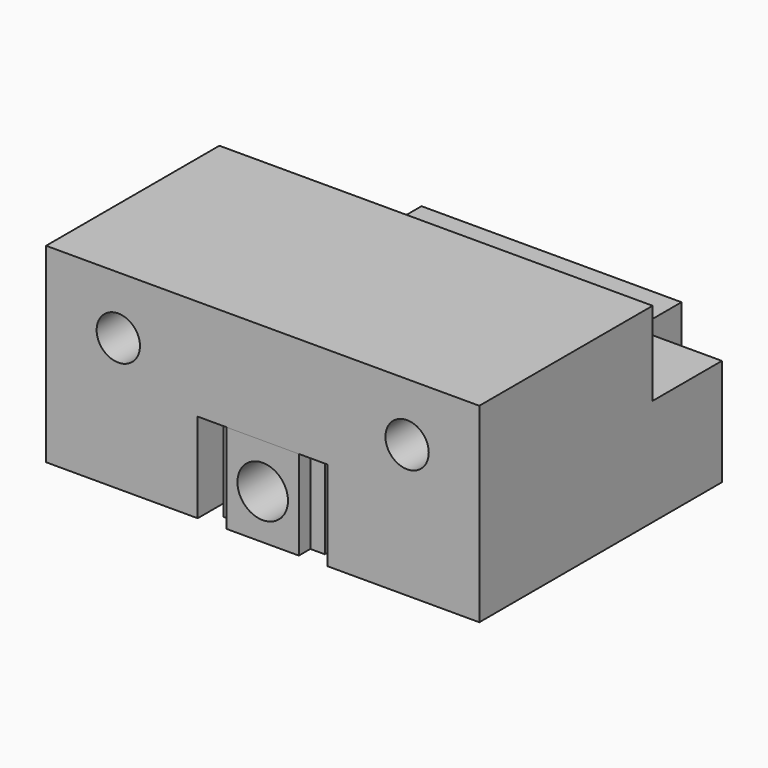
from build123d import *

# Parameters (mm, degrees)
F0_W      = 30
F0_H      = 7
F0_R      = 1.5
F1_DEPTH  = 25
F3_DEPTH  = 6.2
F4_DEPTH  = 6.2
F5_R      = 1.75
F6_DEPTH  = 15
F7_R      = 1.75
F8_DEPTH  = 7
F9_W      = 30
F9_H      = 5.8
F10_DEPTH = 10
F11_W     = 6
F11_H     = 4
F12_DEPTH = 13.201


with BuildPart() as f1:
    # F0 (on Front) → F1 (new body)
    with BuildSketch(Plane.XZ):
        with Locations((0, 0.5)):
            Rectangle(F0_W, F0_H)
        with Locations((-10, 0)):
            Circle(F0_R, mode=Mode.SUBTRACT)
        with Locations((10, 0)):
            Circle(F0_R, mode=Mode.SUBTRACT)
    extrude(amount=F1_DEPTH)

    # F2 (on face) → F4 (join)
    with BuildSketch(Plane(origin=(0, 0, -3), x_dir=(1, 0, 0), z_dir=(0, 0, -1))):
        with BuildLine():
            Line((4.5, 25), (4.5, 2.5))
            ThreePointArc((4.5, 2.5), (5.232233, 0.732233), (7, 0))
            Line((7, 0), (15, 0))
            Line((15, 0), (15, 25))
            Line((15, 25), (4.5, 25))
        make_face()
        with BuildLine():
            Line((-4.5, 25), (-15, 25))
            Line((-15, 25), (-15, 0))
            Line((-15, 0), (-7, 0))
            ThreePointArc((-7, 0), (-5.232233, 0.732233), (-4.5, 2.5))
            Line((-4.5, 2.5), (-4.5, 25))
        make_face()
    extrude(amount=F4_DEPTH)

    # F7 (on face) → F8 (cut)
    with BuildSketch(Plane(origin=(0, 0, -9.2), x_dir=(1, 0, 0), z_dir=(0, 0, -1))):
        with Locations((9, 7)):
            Circle(F7_R)
        with Locations((9, 19)):
            Circle(F7_R)
        with Locations((-9, 7)):
            Circle(F7_R)
        with Locations((-9, 19)):
            Circle(F7_R)
    extrude(amount=-F8_DEPTH, mode=Mode.SUBTRACT)

    # F9 (on face) → F10 (cut)
    with BuildSketch(Plane(origin=(0, 0, 0), x_dir=(-1, 0, 0), z_dir=(0, 1, 0))):
        with Locations((0, 1.1)):
            Rectangle(F9_W, F9_H)
    extrude(amount=-F10_DEPTH, mode=Mode.SUBTRACT)

    # F11 (on face) → F12 (cut, through all)
    with BuildSketch(Plane(origin=(0, 0, -9.2), x_dir=(1, 0, 0), z_dir=(0, 0, -1))):
        with Locations((-12, 2)):
            Rectangle(F11_W, F11_H)
        with Locations((12, 2)):
            Rectangle(F11_W, F11_H)
    extrude(amount=-F12_DEPTH, mode=Mode.SUBTRACT)


with BuildPart() as f3:
    # F2 (on face) → F3 (new body)
    with BuildSketch(Plane(origin=(0, 0, -3), x_dir=(1, 0, 0), z_dir=(0, 0, -1))):
        Polygon((2.5, 25), (-2.5, 25), (-2.5, 24), (-3.5, 24), (-3.5, 23), (-2.5, 23), (-2.5, 22), (-3.5, 22), (-3.5, 21), (-2.5, 21), (-2.5, 20), (-3.5, 20), (-3.5, 19), (-2.5, 19), (-2.5, 18), (-3.5, 18), (-3.5, 17), (-2.5, 17), (-2.5, 16), (-3.5, 16), (-3.5, 15), (-2.5, 15), (-2.5, 14), (-3.5, 14), (-3.5, 13), (-2.5, 13), (-2.5, 12), (-3.5, 12), (-3.5, 11), (-2.5, 11), (-2.5, 10), (-3.5, 10), (-3.5, 9), (-2.5, 9), (2.5, 9), (3.5, 9), (3.5, 10), (2.5, 10), (2.5, 11), (3.5, 11), (3.5, 12), (2.5, 12), (2.5, 13), (3.5, 13), (3.5, 14), (2.5, 14), (2.5, 15), (3.5, 15), (3.5, 16), (2.5, 16), (2.5, 17), (3.5, 17), (3.5, 18), (2.5, 18), (2.5, 19), (3.5, 19), (3.5, 20), (2.5, 20), (2.5, 21), (3.5, 21), (3.5, 22), (2.5, 22), (2.5, 23), (3.5, 23), (3.5, 24), (2.5, 24), align=None)
    extrude(amount=F3_DEPTH)

    # F5 (on face) → F6 (cut)
    with BuildSketch(Plane.XZ.offset(25)):
        with Locations((0, -6.1)):
            Circle(F5_R)
    extrude(amount=-F6_DEPTH, mode=Mode.SUBTRACT)


solid = Compound([f1.part, f3.part])
